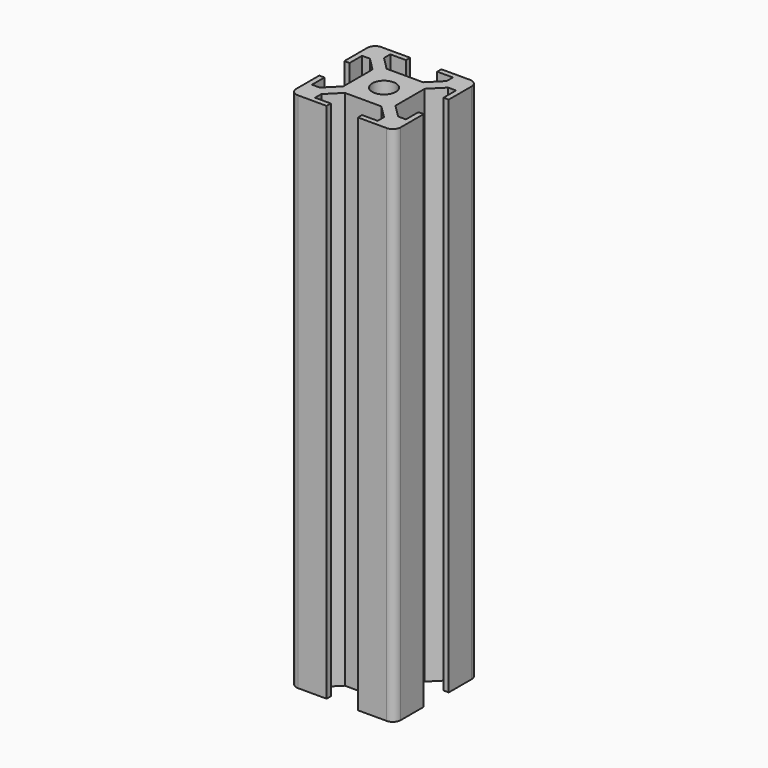
from build123d import *

# Parameters (mm, degrees)
SKETCH_R  = 2.25
PAD_DEPTH = 100
FILLET_R  = 1.5


with BuildPart() as part:
    # Sketch → Pad (new body)
    with BuildSketch(Plane(origin=(0, 0, 0), x_dir=(1, 0, 0), z_dir=(0, 0, -1))):
        Polygon((7, 0), (7, -1), (4, -1), (4, -2.5), (6.499998, -5), (13.500002, -5), (16, -2.5), (16, -1), (13, -1), (13, 0), (20, 0), (20, -7), (19, -7), (19, -4), (17.5, -4), (15.000002, -6.5), (15.000002, -13.500005), (17.5, -16.000005), (19, -16.000005), (19, -13.000005), (20, -13.000005), (20, -20.000005), (13, -20.000005), (13, -19.000005), (16, -19.000005), (16, -17.500005), (13.500002, -15.000005), (6.499998, -15.000005), (4, -17.500005), (4, -19.000005), (7, -19.000005), (7, -20.000005), (0, -20.000005), (0, -13.000005), (1, -13.000005), (1, -16.000005), (2.5, -16.000005), (4.999998, -13.500005), (4.999998, -6.5), (2.5, -4), (1, -4), (1, -7), (0, -7), (0, 0), align=None)
        with Locations((10, -10.000002)):
            Circle(SKETCH_R, mode=Mode.SUBTRACT)
    extrude(amount=PAD_DEPTH)

    # Fillet
    fillet_edges = [part.edges().sort_by_distance(p)[0] for p in [
        (20, 20.000005, -50),
        (20, 0, -50),
        (0, 20.000005, -50),
        (0, 0, -50),
    ]]
    fillet(fillet_edges, radius=FILLET_R)


solid = part.part
